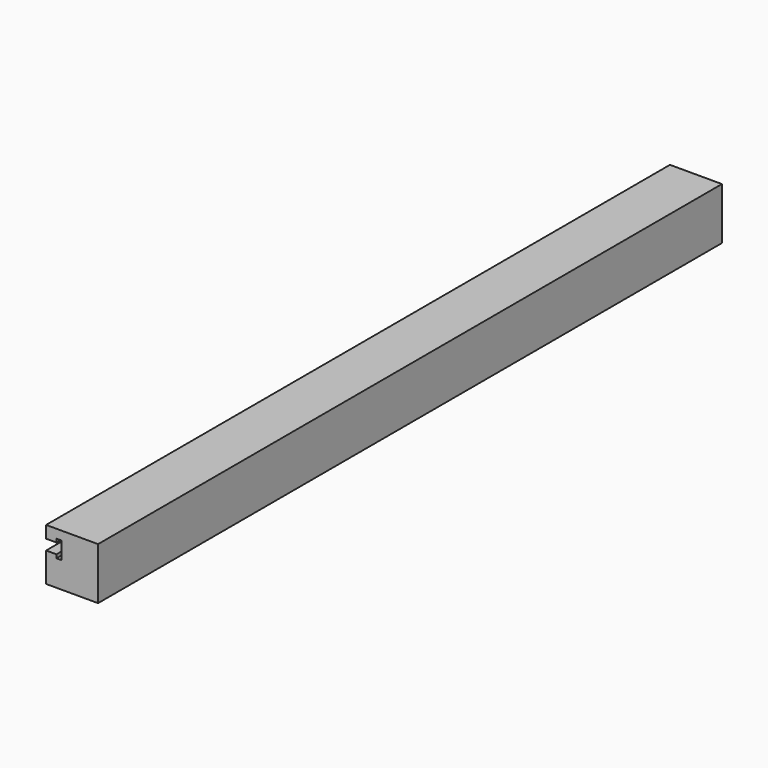
from build123d import *

# Parameters (mm, degrees)
F0_W          = 30
F0_H          = 30
F1_DEPTH      = 225
F1_DEPTH_BACK = 225
F3_DEPTH      = 450.001


with BuildPart() as f1:
    # F0 (on Front) → F1 (new body, two sides)
    with BuildSketch(Plane.XZ) as f1_sk:
        Rectangle(F0_W, F0_H)
    extrude(amount=F1_DEPTH)
    extrude(f1_sk.sketch, amount=-F1_DEPTH_BACK)

    # F2 (on face) → F3 (cut, through all)
    with BuildSketch(Plane.XZ.offset(225)):
        Polygon((-9, 8), (-15, 8), (-15, 2), (-9, 2), (-9, 0), (-6, 0), (-6, 10), (-9, 10), align=None)
    extrude(amount=-F3_DEPTH, mode=Mode.SUBTRACT)


solid = f1.part
